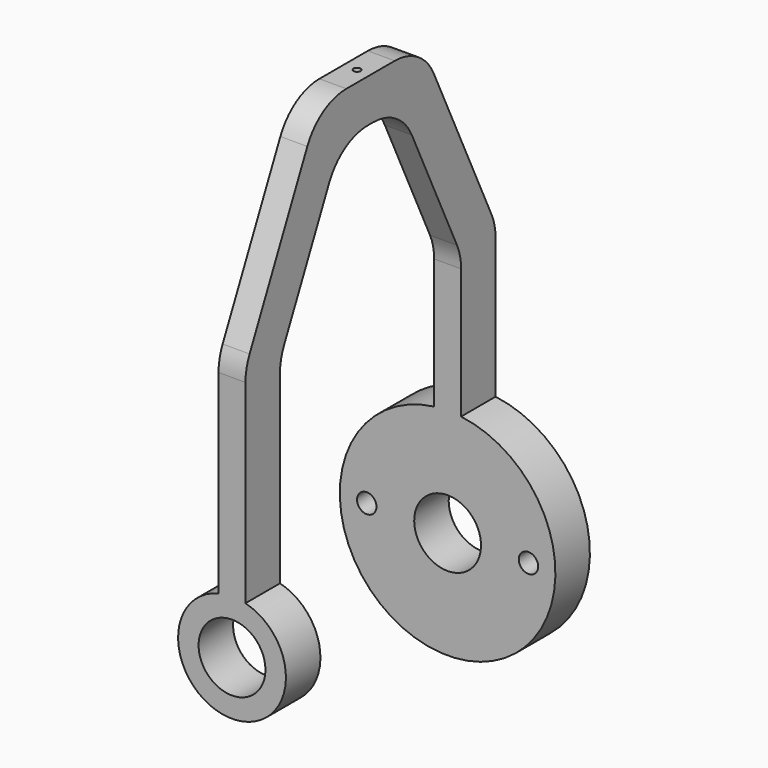
from build123d import *

# Parameters (mm, degrees)
F1_DEPTH = 3.175
F2_R     = 6.35
F2_R_2   = 3.937
F3_DEPTH = 5.08
F4_R     = 12.7
F4_R_2   = 1.143
F4_R_3   = 3.937
F5_DEPTH = 5.08
F6_R     = 0.41275
F7_DEPTH = 5.0814106062


with BuildPart() as f1:
    # F0 (on Right) → F1 (new body)
    with BuildSketch(Plane.YZ):
        with BuildLine():
            Line((-18.415, 5.1269156738), (-13.335, 5.1269156738))
            Line((-13.335, 5.1269156738), (-13.335, 29.1074568056))
            ThreePointArc((-13.335, 29.1074568056), (-13.1820577877, 30.4927274565), (-12.7305984957, 31.8112685458))
            Line((-12.7305984957, 31.8112685458), (-6.086145584, 45.930727414))
            ThreePointArc((-6.086145584, 45.930727414), (-3.7429944023, 48.5884315299), (-0.3405470883, 49.5769156738))
            Line((-0.3405470883, 49.5769156738), (0, 49.5769156738))
            Line((0, 49.5769156738), (0.3405470883, 49.5769156738))
            ThreePointArc((0.3405470883, 49.5769156738), (3.7429944023, 48.5884315299), (6.086145584, 45.930727414))
            Line((6.086145584, 45.930727414), (12.7305984957, 31.8112685458))
            ThreePointArc((12.7305984957, 31.8112685458), (13.1820577877, 30.4927274565), (13.335, 29.1074568056))
            Line((13.335, 29.1074568056), (13.335, 5.1269156738))
            Line((13.335, 5.1269156738), (18.415, 5.1269156738))
            Line((18.415, 5.1269156738), (18.415, 30.2430239001))
            ThreePointArc((18.415, 30.2430239001), (18.2620577877, 31.628294551), (17.8105984957, 32.9468356404))
            Line((17.8105984957, 32.9468356404), (9.3099413945, 51.010727414))
            ThreePointArc((9.3099413945, 51.010727414), (6.9667902129, 53.6684315299), (3.5643428989, 54.6569156738))
            Line((3.5643428989, 54.6569156738), (0, 54.6569156738))
            Line((0, 54.6569156738), (-3.5643428989, 54.6569156738))
            ThreePointArc((-3.5643428989, 54.6569156738), (-6.9667902129, 53.6684315299), (-9.3099413945, 51.010727414))
            Line((-9.3099413945, 51.010727414), (-17.8105984957, 32.9468356404))
            ThreePointArc((-17.8105984957, 32.9468356404), (-18.2620577877, 31.628294551), (-18.415, 30.2430239001))
            Line((-18.415, 30.2430239001), (-18.415, 5.1269156738))
        make_face()
    extrude(amount=F1_DEPTH)

    # F2 (on face) → F3 (join, through all)
    with BuildSketch(Plane.XZ.offset(18.415)):
        with Locations((1.5875, 1.1899156738)):
            Circle(F2_R)
        with Locations((1.5875, 1.1899156738)):
            Circle(F2_R_2, mode=Mode.SUBTRACT)
    extrude(amount=-F3_DEPTH)

    # F4 (on face) → F5 (join, through all)
    with BuildSketch(Plane(origin=(0, 18.415, 0), x_dir=(-1, 0, 0), z_dir=(0, 1, 0))):
        with Locations((-1.5875, 1.1899156739)):
            Circle(F4_R)
        with Locations((-11.1125, 1.1899156739)):
            Circle(F4_R_2, mode=Mode.SUBTRACT)
        with Locations((-1.5875, 1.1899156739)):
            Circle(F4_R_3, mode=Mode.SUBTRACT)
        with Locations((7.9375, 1.1899156739)):
            Circle(F4_R_2, mode=Mode.SUBTRACT)
    extrude(amount=-F5_DEPTH)

    # F6 (on face) → F7 (cut, through all)
    with BuildSketch(Plane.XY.offset(54.6569156738)):
        with Locations((1.5875, 0)):
            Circle(F6_R)
    extrude(amount=-F7_DEPTH, mode=Mode.SUBTRACT)


solid = f1.part
